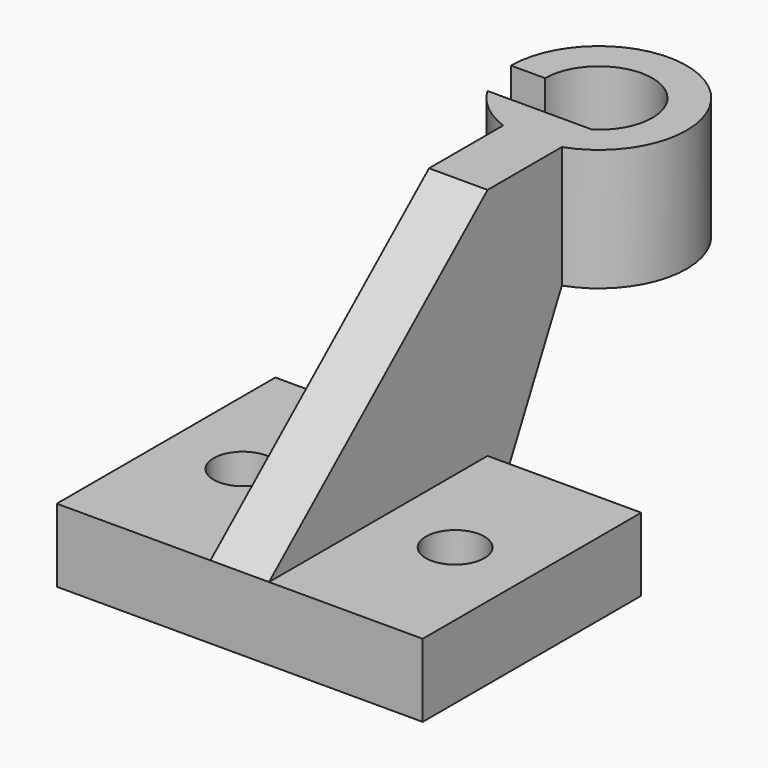
from build123d import *

# Parameters (mm, degrees)
F1_DEPTH  = 15
F2_W      = 12
F2_H      = 56
F3_DEPTH  = 48
F5_DEPTH  = 25
F7_DEPTH  = 36
F8_R      = 18
F8_R_2    = 11
F9_DEPTH  = 25
F11_DEPTH = 25


with BuildPart() as f1:
    # F0 (on Top) → F1 (new body)
    with BuildSketch(Plane.XY):
        with BuildLine():
            Line((-10.2415060103, 26.5643188208), (-41.7415060103, 26.5643188208))
            Line((-41.7415060103, 26.5643188208), (-41.7415060103, -1.4356811792))
            Line((-41.7415060103, -1.4356811792), (-31.9915060103, -1.4356811792))
            ThreePointArc((-31.9915060103, -1.4356811792), (-25.9915060103, 4.5643188208), (-19.9915060103, -1.4356811792))
            Line((-19.9915060103, -1.4356811792), (-10.2415060103, -1.4356811792))
            Line((-10.2415060103, -1.4356811792), (-10.2415060103, 26.5643188208))
        make_face()
        Polygon((1.7584939897, 26.5643188208), (-10.2415060103, 26.5643188208), (-10.2415060103, -1.4356811792), (-10.2415060103, -29.4356811792), (-4.2415060103, -29.4356811792), (1.7584939897, -29.4356811792), (1.7584939897, -1.4356811792), align=None)
        with BuildLine():
            Line((-31.9915060103, -1.4356811792), (-41.7415060103, -1.4356811792))
            Line((-41.7415060103, -1.4356811792), (-41.7415060103, -29.4356811792))
            Line((-41.7415060103, -29.4356811792), (-10.2415060103, -29.4356811792))
            Line((-10.2415060103, -29.4356811792), (-10.2415060103, -1.4356811792))
            Line((-10.2415060103, -1.4356811792), (-19.9915060103, -1.4356811792))
            ThreePointArc((-19.9915060103, -1.4356811792), (-25.9915060103, -7.4356811792), (-31.9915060103, -1.4356811792))
        make_face()
        with BuildLine():
            Line((33.2584939897, 26.5643188208), (1.7584939897, 26.5643188208))
            Line((1.7584939897, 26.5643188208), (1.7584939897, -1.4356811792))
            Line((1.7584939897, -1.4356811792), (11.5084939897, -1.4356811792))
            ThreePointArc((11.5084939897, -1.4356811792), (17.5084939897, 4.5643188208), (23.5084939897, -1.4356811792))
            Line((23.5084939897, -1.4356811792), (33.2584939897, -1.4356811792))
            Line((33.2584939897, -1.4356811792), (33.2584939897, 26.5643188208))
        make_face()
        with BuildLine():
            Line((11.5084939897, -1.4356811792), (1.7584939897, -1.4356811792))
            Line((1.7584939897, -1.4356811792), (1.7584939897, -29.4356811792))
            Line((1.7584939897, -29.4356811792), (33.2584939897, -29.4356811792))
            Line((33.2584939897, -29.4356811792), (33.2584939897, -1.4356811792))
            Line((33.2584939897, -1.4356811792), (23.5084939897, -1.4356811792))
            ThreePointArc((23.5084939897, -1.4356811792), (17.5084939897, -7.4356811792), (11.5084939897, -1.4356811792))
        make_face()
    extrude(amount=F1_DEPTH)

    # F2 (on face) → F3 (join)
    with BuildSketch(Plane.XY.offset(15)):
        with Locations((-4.2415060103, -1.4356811792)):
            Rectangle(F2_W, F2_H)
    extrude(amount=F3_DEPTH)

    # F4 (on face) → F5 (cut)
    with BuildSketch(Plane.YZ.offset(1.7584939897)):
        Polygon((-29.4356811792, 15), (26.5643188208, 63), (-29.4356811792, 63), align=None)
    extrude(amount=-F5_DEPTH, mode=Mode.SUBTRACT)

    # F6 (on face) → F7 (join)
    with BuildSketch(Plane(origin=(0, 26.5643188208, 0), x_dir=(-1, 0, 0), z_dir=(0, 1, 0))):
        Polygon((-1.7584939897, 63), (-1.7584939897, 15), (-1.7584939897, 0), (10.2415060103, 15), (10.2415060103, 63), align=None)
    extrude(amount=F7_DEPTH)

    # F8 (on face) → F9 (join)
    with BuildSketch(Plane.XY.offset(63)):
        with Locations((-4.2415060103, 62.5643188208)):
            Circle(F8_R)
        with Locations((-4.2415060103, 62.5643188208)):
            Circle(F8_R_2, mode=Mode.SUBTRACT)
    extrude(amount=-F9_DEPTH)

    # F10 (on face) → F11 (cut)
    with BuildSketch(Plane.YZ.offset(1.7584939897)):
        Polygon((45.5937560724, 38), (26.5643188208, 0), (62.5643188208, 0), (62.5643188208, 63), (53.3447743635, 63), (53.3447743635, 38), align=None)
    extrude(amount=-F11_DEPTH, mode=Mode.SUBTRACT)


solid = f1.part
